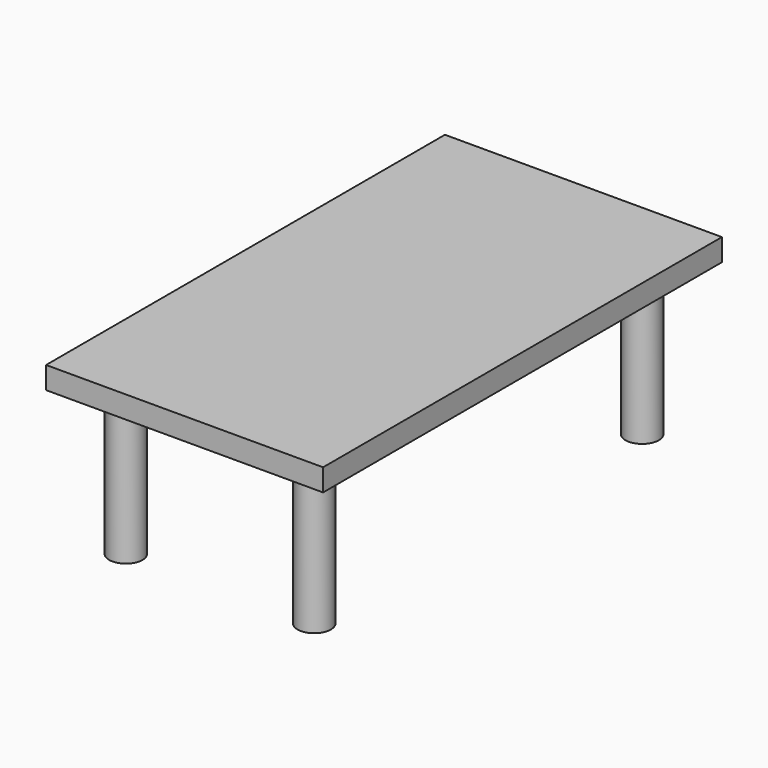
from build123d import *

# Parameters (mm, degrees)
CYLINDER_R         = 1.5
CYLINDER_DEPTH     = 13.3333
ARRAY_X_COUNT      = 2
ARRAY_X_PITCH      = 17
ARRAY_Y_COUNT      = 2
ARRAY_Y_PITCH      = 37
BOX021003019_W     = 25
BOX021003019_H     = 45
BOX021003019_DEPTH = 2


with BuildPart() as obj1:
    # Cylinder → Cylinder (new body)
    with BuildSketch(Plane(origin=(54, 54, 0), x_dir=(1, 0, 0), z_dir=(0, 0, 1))):
        Circle(CYLINDER_R)
    extrude(amount=CYLINDER_DEPTH)

    # Array X: obj1_2


with BuildPart() as obj1_1:
    add(obj1.part)
    with Locations(*[(i * ARRAY_X_PITCH, 0, 0) for i in range(1, ARRAY_X_COUNT)]):
        add(obj1.part)

    # Array Y: obj1_2


with BuildPart() as obj1_2:
    add(obj1_1.part)
    with Locations(*[(0, i * ARRAY_Y_PITCH, 0) for i in range(1, ARRAY_Y_COUNT)]):
        add(obj1_1.part)


with BuildPart() as mesa_sofa:
    # Box021003019 → Box021003019 (new body)
    with BuildSketch(Plane(origin=(50, 50, 13.3333), x_dir=(1, 0, 0), z_dir=(0, 0, 1))):
        with Locations((12.5, 22.5)):
            Rectangle(BOX021003019_W, BOX021003019_H)
    extrude(amount=BOX021003019_DEPTH)

    # Fusion009: union obj1
    add(obj1_2.part)


solid = mesa_sofa.part
